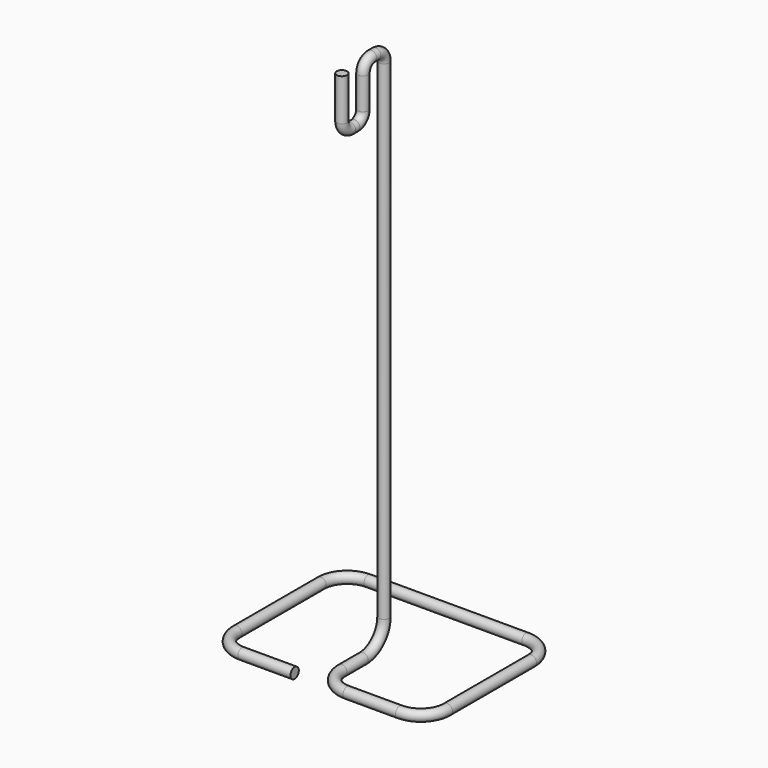
from build123d import *

# Parameters (mm, degrees)
F2_R      = 1
F3_FACE_R = 1


with BuildPart() as f3:
    # F3: sweep along a path in F0
    with BuildLine(Plane.YZ) as f3_path:
        Line((-17.1537491528, 58.2725426934), (-17.1537491528, 50.2725426934))
        ThreePointArc((-17.1537491528, 50.2725426934), (-16.5679627151, 48.8583291311), (-15.1537491528, 48.2725426934))
        Line((-15.1537491528, 48.2725426934), (-14.1537491528, 48.2725426934))
        ThreePointArc((-14.1537491528, 48.2725426934), (-12.7395355904, 48.8583291311), (-12.1537491528, 50.2725426934))
        Line((-12.1537491528, 50.2725426934), (-12.1537491528, 56.2725426934))
        ThreePointArc((-12.1537491528, 56.2725426934), (-11.5679627151, 57.6867562558), (-10.1537491528, 58.2725426934))
        Line((-10.1537491528, 58.2725426934), (-9.1537491528, 58.2725426934))
        ThreePointArc((-9.1537491528, 58.2725426934), (-7.7395355904, 57.6867562558), (-7.1537491528, 56.2725426934))
        Line((-7.1537491528, 56.2725426934), (-7.1537491528, -36.7274573066))
        ThreePointArc((-7.1537491528, -36.7274573066), (-8.6182152468, -40.2629912125), (-12.1537491528, -41.7274573066))
        Line((-12.1537491528, -41.7274573066), (-17.1537491528, -41.7274573066))
    # F2 (on plane+point) → F3 (sweep)
    with BuildSketch(Plane.XY.offset(58.2725426934)):
        with Locations((0, -17.1537491528)):
            Circle(F2_R)
    sweep(path=f3_path.line)

    # F6: sweep along a path in F5
    with BuildLine(Plane.XY.offset(-41.7274573066)) as f6_path:
        ThreePointArc((0, -17.1537491528), (1.4644660941, -20.6892830587), (5, -22.1537491528))
        Line((5, -22.1537491528), (15, -22.1537491528))
        ThreePointArc((15, -22.1537491528), (18.5355339059, -20.6892830587), (20, -17.1537491528))
        Line((20, -17.1537491528), (20, 2.8462508472))
        ThreePointArc((20, 2.8462508472), (18.5355339059, 6.3817847532), (15, 7.8462508472))
        Line((15, 7.8462508472), (-15, 7.8462508472))
        ThreePointArc((-15, 7.8462508472), (-18.5355339059, 6.3817847532), (-20, 2.8462508472))
        Line((-20, 2.8462508472), (-20, -17.1537491528))
        ThreePointArc((-20, -17.1537491528), (-18.5355339059, -20.6892830587), (-15, -22.1537491528))
        Line((-15, -22.1537491528), (-5, -22.1537491528))
    # F3_face (on face) → F6 (sweep)
    with BuildSketch(Plane(origin=(0, -17.1537491528, -41.7274573066), x_dir=(1, 0, 0), z_dir=(0, -1, 0))):
        Circle(F3_FACE_R)
    sweep(path=f6_path.line)


solid = f3.part
